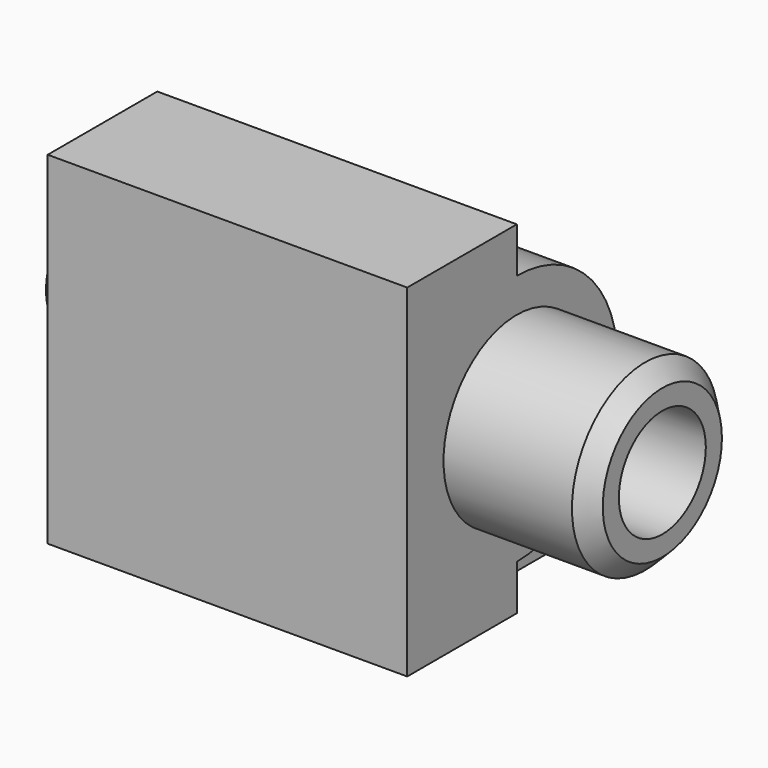
from build123d import *

# Parameters (mm, degrees)
PAD001_DEPTH  = 10.5
SKETCH002_R   = 5.35
SKETCH002_R_2 = 3.175
PAD002_DEPTH  = 8.5
SKETCH003_R   = 4.5
PAD003_DEPTH  = 3.7
CHAMFER_SIZE  = 1
SKETCH006_W   = 4
SKETCH006_H   = 4
PAD005_DEPTH  = 6
FILLET_R      = 1


with BuildPart() as part:
    # Sketch001 → Pad001 (new body, symmetric)
    with BuildSketch(Plane.YZ):
        with BuildLine():
            Line((8, 17.35), (8, 20))
            Line((8, 20), (0, 20))
            Line((0, 20), (0, 0))
            Line((0, 0), (8, 0))
            Line((8, 2.65), (8, 0))
            ThreePointArc((8, 2.65), (15.35, 10), (8, 17.35))
        make_face()
    extrude(amount=PAD001_DEPTH, both=True)

    # Sketch002 (on Face8 of Pad001) → Pad002 (join)
    with BuildSketch(Plane.YZ.offset(10.5)):
        with Locations((8, 10)):
            Circle(SKETCH002_R)
        with Locations((8, 10)):
            Circle(SKETCH002_R_2, mode=Mode.SUBTRACT)
    extrude(amount=PAD002_DEPTH)

    # Sketch003 (on Face4 of Pad002) → Pad003 (join)
    with BuildSketch(Plane(origin=(-10.5, 0, 0), x_dir=(0, 1, 0), z_dir=(-1, 0, 0))):
        with Locations((8, -10)):
            Circle(SKETCH003_R)
    extrude(amount=PAD003_DEPTH)

    # Chamfer
    chamfer_edges = [part.edges().sort_by_distance(p)[0] for p in [
        (-14.2, 3.5, 10),
        (19, 2.65, 10),
    ]]
    chamfer(chamfer_edges, length=CHAMFER_SIZE)

    # Sketch006 (on Face6 of Chamfer) → Pad005 (join)
    with BuildSketch(Plane.ZX.offset(8)):
        with Locations((2.5, -6.5)):
            Rectangle(SKETCH006_W, SKETCH006_H)
        with Locations((2.5, 6.5)):
            Rectangle(SKETCH006_W, SKETCH006_H)
    extrude(amount=PAD005_DEPTH)

    # Fillet
    fillet_edges = [part.edges().sort_by_distance(p)[0] for p in [
        (-6.5, 14, 0.5),
        (6.5, 14, 0.5),
        (-6.5, 14, 4.5),
        (6.5, 14, 4.5),
    ]]
    fillet(fillet_edges, radius=FILLET_R)


solid = part.part
